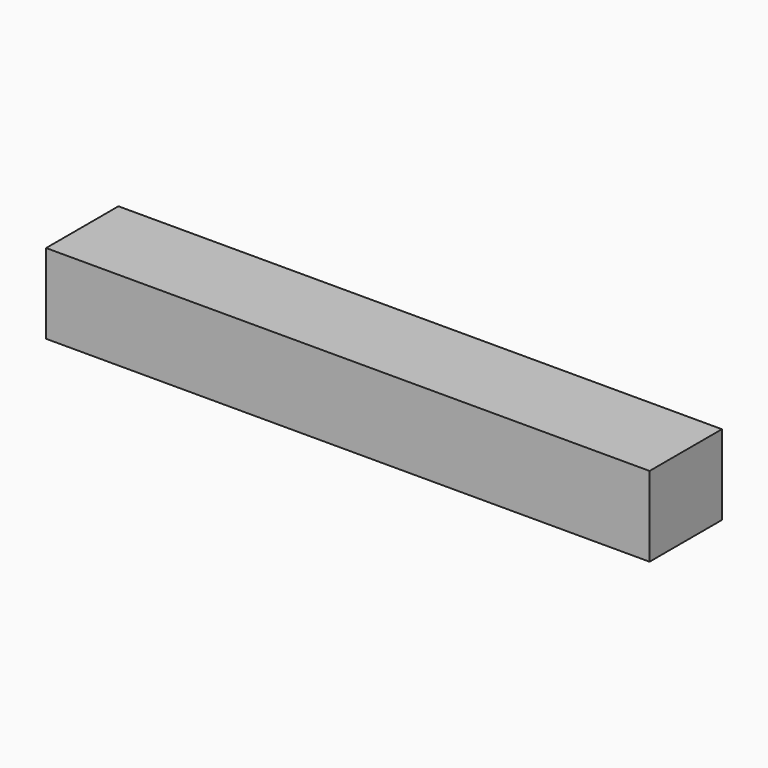
from build123d import *

# Parameters (mm, degrees)
F0_W     = 255.0143003464
F0_H     = 134.6930116415
F1_DEPTH = 152.4
F2_DEPTH = 381
F3_DEPTH = 381


with BuildPart() as f1:
    # F0 (on Front) → F1 (new body)
    with BuildSketch(Plane.XZ):
        Rectangle(F0_W, F0_H)
    extrude(amount=F1_DEPTH)

    # F2 (add): a face of the model
    f2_faces = [f1.faces().sort_by_distance(p)[0] for p in [
        (127.5071501732, -76.2, 0),
    ]]
    extrude(f2_faces, amount=F2_DEPTH)

    # F3 (add): a face of the model
    f3_faces = [f1.faces().sort_by_distance(p)[0] for p in [
        (-127.5071501732, -76.2, 0),
    ]]
    extrude(f3_faces, amount=F3_DEPTH)


solid = f1.part
